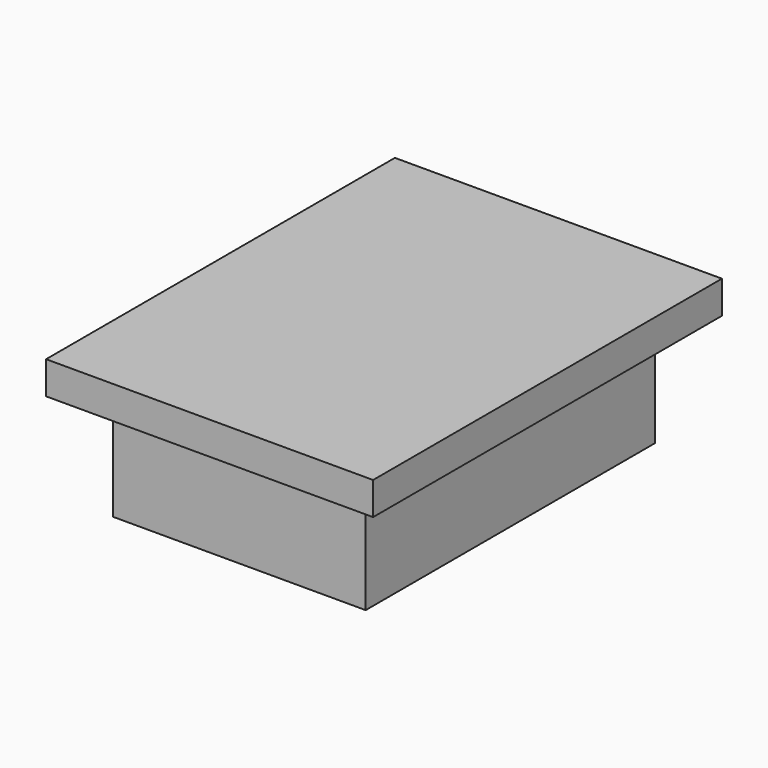
from build123d import *

# Parameters (mm, degrees)
F0_W     = 15
F0_H     = 20
F0_W_2   = 11.6
F0_H_2   = 16.6
F0_W_3   = 7
F0_H_3   = 12
F1_DEPTH = 1.5
F2_DEPTH = 5


with BuildPart() as f1:
    # F0 (on Top) → F1 (new body)
    with BuildSketch(Plane.XY):
        Rectangle(F0_W, F0_H)
        Rectangle(F0_W_2, F0_H_2, mode=Mode.SUBTRACT)
        Rectangle(F0_W_2, F0_H_2)
        Rectangle(F0_W_3, F0_H_3, mode=Mode.SUBTRACT)
        Rectangle(F0_W_3, F0_H_3)
    extrude(amount=F1_DEPTH)

    # F0 (on Top) → F2 (join)
    with BuildSketch(Plane.XY):
        Rectangle(F0_W_2, F0_H_2)
        Rectangle(F0_W_3, F0_H_3, mode=Mode.SUBTRACT)
    extrude(amount=-F2_DEPTH)


solid = f1.part
